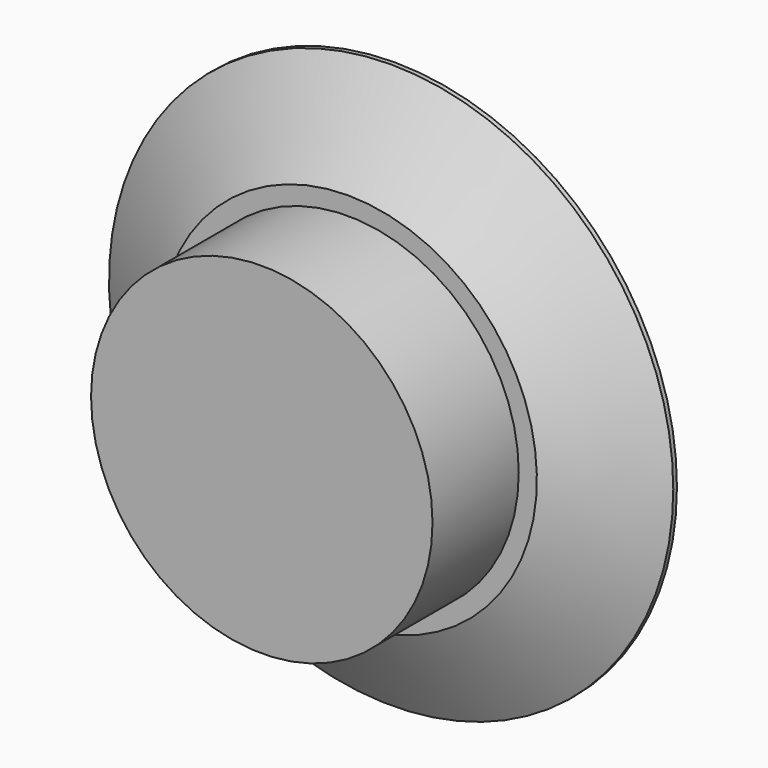
from build123d import *

# Parameters (mm, degrees)
F0_R     = 7.85
F1_DEPTH = 3
F2_R     = 4.75
F3_DEPTH = 3


with BuildPart() as f1:
    # F0 (on Front) → F1 (new body)
    with BuildSketch(Plane.XZ):
        Circle(F0_R)
    extrude(amount=F1_DEPTH)

    # F2 (on face) → F3 (join)
    with BuildSketch(Plane.XZ.offset(3)):
        Circle(F2_R)
    extrude(amount=F3_DEPTH)

    # F4 (on Right) → F5 (revolve, cut)
    with BuildSketch(Plane.YZ):
        Polygon((-3.140014, 5.011569), (-1.437357, 7.960658), (0.2653, 5.011569), (1.444096, 8.551884), (-3.541981, 9.199427), align=None)
    revolve(axis=Axis((0, -4.799199, 0), (0, -1, 0)), mode=Mode.SUBTRACT)


solid = f1.part
